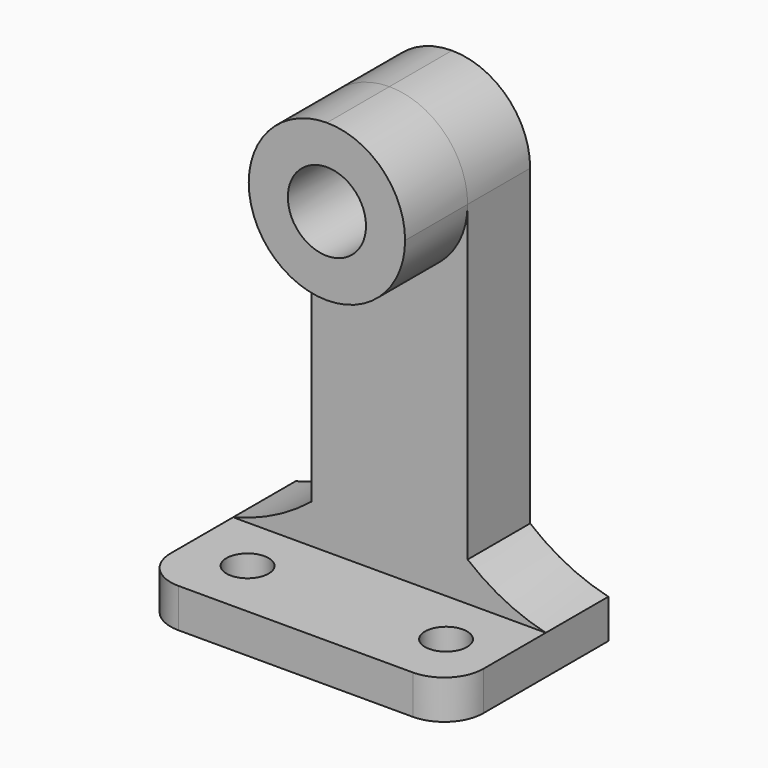
from build123d import *

# Parameters (mm, degrees)
F0_W      = 50.8
F0_H      = 76.2
F1_DEPTH  = 31.75
F2_W      = 19.05
F2_H      = 69.85
F3_DEPTH  = 50.8
F5_DEPTH  = 25.4
F6_R      = 6.35
F7_DEPTH  = 12.7
F8_DEPTH  = 25.4
F9_R      = 3.4236002905
F10_DEPTH = 25.4


with BuildPart() as f1:
    # F0 (on Front) → F1 (new body)
    with BuildSketch(Plane.XZ):
        with Locations((-25.4, 14.5882895922)):
            Rectangle(F0_W, F0_H)
    extrude(amount=F1_DEPTH)

    # F2 (on face) → F3 (cut)
    with BuildSketch(Plane.YZ):
        with Locations((-22.225, 17.7632895922)):
            Rectangle(F2_W, F2_H)
    extrude(amount=-F3_DEPTH, mode=Mode.SUBTRACT)

    # F4 (on face) → F5 (cut)
    with BuildSketch(Plane.XZ.offset(12.7)):
        with BuildLine():
            Line((-50.8, 52.6882895922), (-50.8, -17.1617104078))
            ThreePointArc((-50.8, -17.1617104078), (-44.1071699177, -14.6723705724), (-38.1, -10.8117104078))
            Line((-38.1, -10.8117104078), (-38.1, 52.6882895922))
            Line((-38.1, 52.6882895922), (-50.8, 52.6882895922))
        make_face()
        with BuildLine():
            Line((-12.7, 52.6882895922), (-12.7, -10.8117104078))
            ThreePointArc((-12.7, -10.8117104078), (-6.7122595502, -14.7112295081), (0, -17.1617104078))
            Line((0, -17.1617104078), (0, 52.6882895922))
            Line((0, 52.6882895922), (-12.7, 52.6882895922))
        make_face()
    extrude(amount=-F5_DEPTH, mode=Mode.SUBTRACT)

    # F6 (on face) → F7 (join)
    with BuildSketch(Plane.XZ.offset(12.7)):
        with BuildLine():
            ThreePointArc((-38.1, 39.9882895922), (-25.4, 27.2882895922), (-12.7, 39.9882895922))
            ThreePointArc((-12.7, 39.9882895922), (-16.4197438789, 48.9685457133), (-25.4, 52.6882895922))
            ThreePointArc((-25.4, 52.6882895922), (-34.3802561211, 48.9685457133), (-38.1, 39.9882895922))
        make_face()
        with Locations((-25.4, 39.9882895922)):
            Circle(F6_R, mode=Mode.SUBTRACT)
    extrude(amount=F7_DEPTH)

    # F8 (cut): faces of the model
    f8_faces = [f1.faces().sort_by_distance(p)[0] for p in [
        (-35.2632271754, -12.7, 49.8515167676),
        (-15.5367728246, -12.7, 49.8515167676),
    ]]
    extrude(f8_faces, amount=-F8_DEPTH, mode=Mode.SUBTRACT)

    # F9 (on face) → F10 (cut)
    with BuildSketch(Plane.XY.offset(-17.1617104078)):
        with Locations((-41.0295619067, -21.9763997095)):
            Circle(F9_R)
        with Locations((-8.7823613257, -21.9763997095)):
            Circle(F9_R)
        with BuildLine():
            Line((-50.8, -31.75), (-44.45, -31.75))
            ThreePointArc((-44.45, -31.75), (-48.9401280605, -29.8901280605), (-50.8, -25.4))
            Line((-50.8, -25.4), (-50.8, -31.75))
        make_face()
        with BuildLine():
            ThreePointArc((0, -25.4), (-1.8598719395, -29.8901280605), (-6.35, -31.75))
            Line((-6.35, -31.75), (0, -31.75))
            Line((0, -31.75), (0, -25.4))
        make_face()
    extrude(amount=-F10_DEPTH, mode=Mode.SUBTRACT)


solid = f1.part
